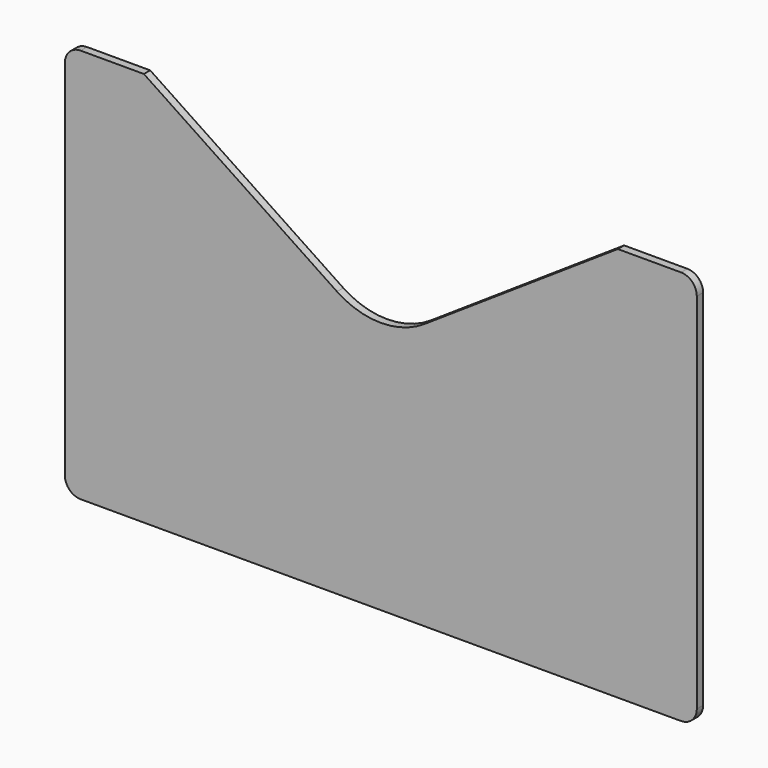
from build123d import *

# Parameters (mm, degrees)
F1_DEPTH = 1.27


with BuildPart() as f1:
    # F0 (on Front) → F1 (new body)
    with BuildSketch(Plane.XZ):
        with BuildLine():
            ThreePointArc((0, 2.54), (0.743949, 0.743949), (2.54, 0))
            Line((2.54, 0), (99.06, 0))
            ThreePointArc((99.06, 0), (100.856051, 0.743949), (101.6, 2.54))
            Line((101.6, 2.54), (101.6, 60.96))
            ThreePointArc((101.6, 60.96), (100.856051, 62.756051), (99.06, 63.5))
            Line((99.06, 63.5), (88.9, 63.5))
            Line((88.9, 63.5), (57.844692, 42.796462))
            ThreePointArc((57.844692, 42.796462), (50.8, 40.6635), (43.755308, 42.796462))
            Line((43.755308, 42.796462), (12.7, 63.5))
            Line((12.7, 63.5), (2.54, 63.5))
            ThreePointArc((2.54, 63.5), (0.743949, 62.756051), (0, 60.96))
            Line((0, 60.96), (0, 2.54))
        make_face()
    extrude(amount=F1_DEPTH)


solid = f1.part
